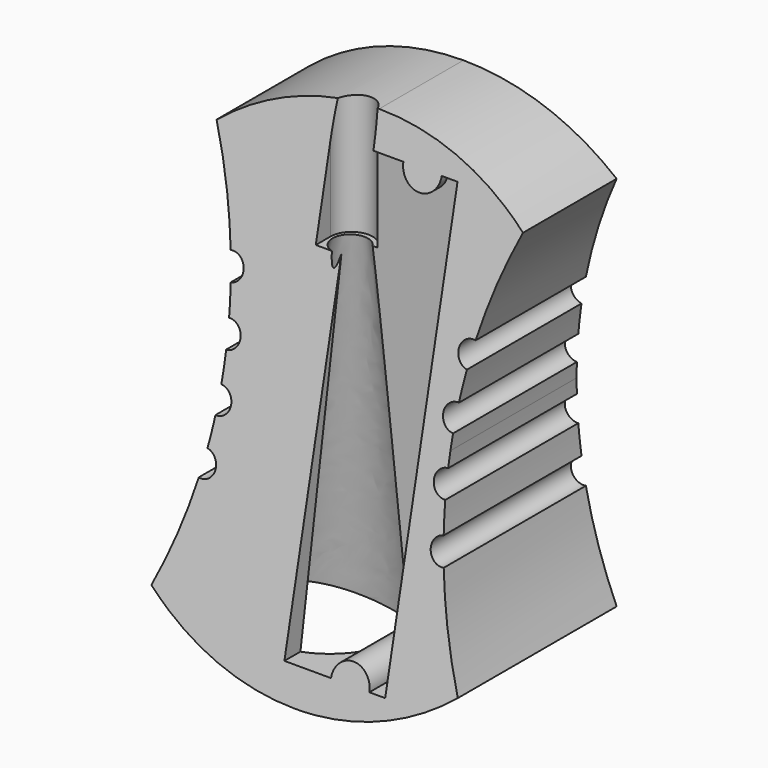
from build123d import *

# Parameters (mm, degrees)
F1_DEPTH  = 5.7
F3_DEPTH  = 18.44198
F4_R      = 0.685572
F4_R_2    = 0.6855
F5_DEPTH  = 15.48248
F7_DEPTH  = 25
F10_R     = 4.298757
F11_R     = 0.956545
F14_DEPTH = 25


with BuildPart() as f1:
    # F0 (on Front) → F1 (new body, symmetric)
    with BuildSketch(Plane.XZ):
        with BuildLine():
            ThreePointArc((-8.3, 10.199632), (-6.682161, 5.213445), (-6.13493, 0))
            ThreePointArc((-6.13493, 0), (-6.682161, -5.213445), (-8.3, -10.199632))
            ThreePointArc((-8.3, -10.199632), (-4.404392, -12.390473), (0, -13.15))
            ThreePointArc((0, -13.15), (4.404392, -12.390473), (8.3, -10.199632))
            ThreePointArc((8.3, -10.199632), (6.682161, -5.213445), (6.13493, 0))
            ThreePointArc((6.13493, 0), (6.682161, 5.213445), (8.3, 10.199632))
            ThreePointArc((8.3, 10.199632), (4.404392, 12.390473), (0, 13.15))
            ThreePointArc((0, 13.15), (-4.404392, 12.390473), (-8.3, 10.199632))
        make_face()
    extrude(amount=F1_DEPTH, both=True)

    # F2 (on Right) → F3 (cut, symmetric)
    with BuildSketch(Plane.YZ):
        Polygon((-5.998229, -14.557695), (0, 13.152902), (-5.998229, 13.152902), align=None)
    extrude(amount=F3_DEPTH, both=True, mode=Mode.SUBTRACT)

    # F4 (on Front) → F5 (cut, symmetric)
    with BuildSketch(Plane.XZ):
        with Locations((-6.507615, 4.309945)):
            Circle(F4_R)
        with Locations((-6.507615, -4.309945)):
            Circle(F4_R)
        with Locations((-6.176657, 1.446914)):
            Circle(F4_R_2)
        with Locations((-6.176657, -1.446914)):
            Circle(F4_R_2)
        with Locations((6.507615, 4.309945)):
            Circle(F4_R)
        with Locations((6.176657, 1.446914)):
            Circle(F4_R_2)
        with Locations((6.176657, -1.446914)):
            Circle(F4_R_2)
        with Locations((6.507615, -4.309945)):
            Circle(F4_R)
    extrude(amount=F5_DEPTH, both=True, mode=Mode.SUBTRACT)

    # F6 (on Front) → F7 (cut)
    with BuildSketch(Plane.XZ):
        with BuildLine():
            Line((4.558944, 0), (4.558944, 11.317))
            Line((4.558944, 11.317), (3.703271, 11.317))
            ThreePointArc((3.703271, 11.317), (2.664347, 10.278075), (1.625422, 11.317))
            Line((1.625422, 11.317), (-0.900685, 11.317))
            Line((-0.900685, 11.317), (-0.900685, 0))
            Line((-0.900685, 0), (-0.900685, -11.317))
            Line((-0.900685, -11.317), (1.625422, -11.317))
            ThreePointArc((1.625422, -11.317), (2.664347, -10.278075), (3.703271, -11.317))
            Line((3.703271, -11.317), (4.558944, -11.317))
            Line((4.558944, -11.317), (4.558944, 0))
        make_face()
    extrude(amount=F7_DEPTH, mode=Mode.SUBTRACT)

    # F10 (on offset) → F12 section 0
    with BuildSketch(Plane.XY.offset(-13.5)):
        with Locations((-2.386769, -0.51822)):
            Circle(F10_R)
    # F11 (on offset) → F12 section 1
    with BuildSketch(Plane.XY.offset(6.5)):
        with Locations((-1.16075, -0.51719)):
            Circle(F11_R)
    loft(mode=Mode.SUBTRACT)

    # F13 (on offset) → F14 (cut)
    with BuildSketch(Plane.XY.offset(6.5)):
        with BuildLine():
            Line((0, -5.757191), (0, -0.359881))
            ThreePointArc((0, -0.359881), (-1.185312, 0.695174), (-2.285457, -0.448411))
            Line((-2.285457, -0.448411), (-2.285457, -5.757191))
            Line((-2.285457, -5.757191), (0, -5.757191))
        make_face()
    extrude(amount=F14_DEPTH, mode=Mode.SUBTRACT)


solid = f1.part
